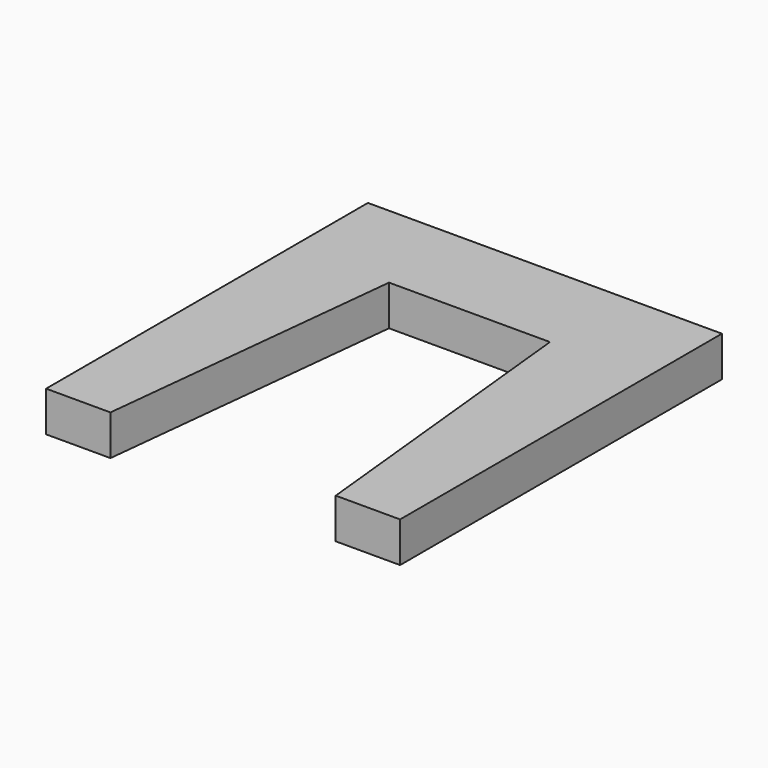
from build123d import *

# Parameters (mm, degrees)
F1_DEPTH = 25
F2_R     = 5
F3_DEPTH = 12
F4_W     = 10
F4_H     = 20
F5_DEPTH = 10


with BuildPart() as f1:
    # F0 (on Top) → F1 (new body)
    with BuildSketch(Plane.XY):
        Polygon((110, -125), (110, 125), (-110, 125), (-110, -125), (-70, -125), (-49.67048, 65.990649), (50.32952, 65.990649), (70, -125), align=None)
    extrude(amount=F1_DEPTH)

    # F2 (on face) → F3 (cut)
    with BuildSketch(Plane(origin=(0, 125, 0), x_dir=(-1, 0, 0), z_dir=(0, 1, 0))):
        with Locations((95, 12.5)):
            Circle(F2_R)
        with Locations((25, 12.5)):
            Circle(F2_R)
        with Locations((-25, 12.5)):
            Circle(F2_R)
        with Locations((-95, 12.5)):
            Circle(F2_R)
    extrude(amount=-F3_DEPTH, mode=Mode.SUBTRACT)

    # F4 (on face) → F5 (cut)
    with BuildSketch(Plane(origin=(0, 0, 0), x_dir=(1, 0, 0), z_dir=(0, 0, -1))):
        with Locations((-90, 25)):
            Rectangle(F4_W, F4_H)
        with Locations((90, 25)):
            Rectangle(F4_W, F4_H)
    extrude(amount=-F5_DEPTH, mode=Mode.SUBTRACT)


solid = f1.part
